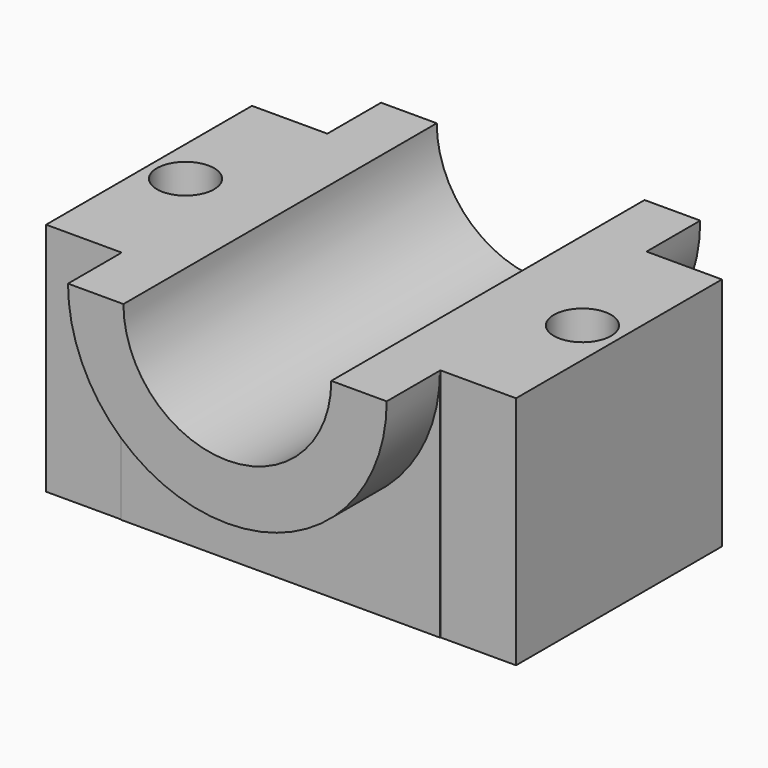
from build123d import *

# Parameters (mm, degrees)
F0_W     = 24.4314651938
F0_H     = 83.410562446
F0_R     = 9.271
F0_W_2   = 103.4520039098
F0_H_2   = 21.7592747342
F1_DEPTH = 76.2
F3_DEPTH = 172.974
F4_DEPTH = 21.59
F6_DEPTH = 21.59


with BuildPart() as f1:
    # F0 (on Top) → F1 (new body)
    with BuildSketch(Plane.XY):
        with Locations((63.9417345518, 0)):
            Rectangle(F0_W, F0_H)
        with Locations((64.3234781713, 0)):
            Circle(F0_R, mode=Mode.SUBTRACT)
        Rectangle(F0_W_2, F0_H)
        with Locations((0, 52.5849185901)):
            Rectangle(F0_W_2, F0_H_2)
        with Locations((-63.9417345518, 0)):
            Rectangle(F0_W, F0_H)
        with Locations((-64.3234781713, 0)):
            Circle(F0_R, mode=Mode.SUBTRACT)
        with Locations((0, -52.5849185901)):
            Rectangle(F0_W_2, F0_H_2)
    extrude(amount=F1_DEPTH)

    # F2 (on face) → F3 (cut)
    with BuildSketch(Plane.XZ.offset(63.4645559572)):
        with BuildLine():
            Line((33.6816743844, 76.2), (-33.6816743844, 76.2))
            ThreePointArc((-33.6816743844, 76.2), (0, 42.5183256156), (33.6816743844, 76.2))
        make_face()
    extrude(amount=-F3_DEPTH, mode=Mode.SUBTRACT)

    # F2 (on face) → F4 (cut)
    with BuildSketch(Plane.XZ.offset(63.4645559572)):
        with BuildLine():
            ThreePointArc((51.6462088302, 76.2), (0, 24.5537911698), (-51.6462088302, 76.2))
            Line((-51.6462088302, 76.2), (-51.7260019549, 76.2))
            Line((-51.7260019549, 76.2), (-51.7260019549, 0))
            Line((-51.7260019549, 0), (51.7260019549, 0))
            Line((51.7260019549, 0), (51.7260019549, 76.2))
            Line((51.7260019549, 76.2), (51.6462088302, 76.2))
        make_face()
    extrude(amount=-F4_DEPTH, mode=Mode.SUBTRACT)

    # F5 (on face) → F6 (cut)
    with BuildSketch(Plane(origin=(0, 63.4645559572, 0), x_dir=(-1, 0, 0), z_dir=(0, 1, 0))):
        with BuildLine():
            ThreePointArc((51.7260019549, 76.2), (0, 24.4739980451), (-51.7260019549, 76.2))
            Line((-51.7260019549, 76.2), (-51.7260019549, 0))
            Line((-51.7260019549, 0), (51.7260019549, 0))
            Line((51.7260019549, 0), (51.7260019549, 76.2))
        make_face()
    extrude(amount=-F6_DEPTH, mode=Mode.SUBTRACT)


solid = f1.part
